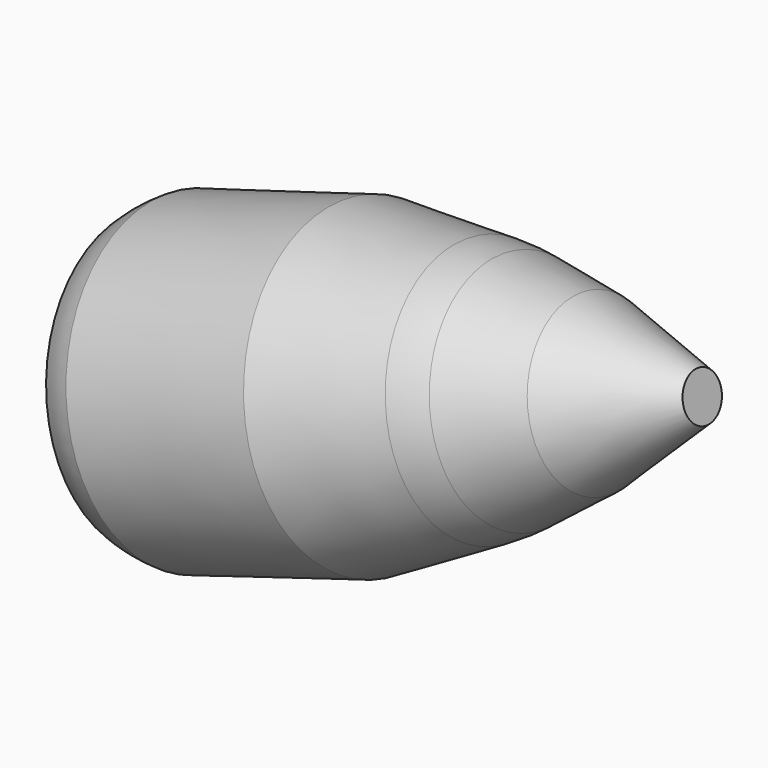
from build123d import *

# Parameters (mm, degrees)
F2_R = 177.8


with BuildPart() as f1:
    # F0 (on Front) → F1 (revolve)
    with BuildSketch(Plane.XZ):
        with BuildLine():
            Line((-335.8125113323, 31.7965768238), (-335.8125113323, -19.4187790523))
            add(Edge.make_bspline(
                [(-335.8125113323, -19.4187790523), (-319.8361711455, -36.4996415061), (-284.8251686885, -49.9284887464)],
                knots=[0.306906154, 0.306906154, 0.306906154, 0.7235563013, 0.7235563013, 0.7235563013], degree=2, weights=[1, 0.9783786977, 1]))
            Line((-284.8251686885, -49.9284887464), (52.9480699434, 51.1722083456))
            Line((52.9480699434, 51.1722083456), (48.4772927708, 66.1088895775))
            Line((48.4772927708, 66.1088895775), (-33.9198673979, 82.2606457376))
            Line((-33.9198673979, 82.2606457376), (-101.2008483359, 87.7409892803))
            Line((-101.2008483359, 87.7409892803), (-198.3356029312, 81.7438942248))
            Line((-198.3356029312, 81.7438942248), (-317.4673501972, 46.4583143785))
            add(Edge.make_bspline(
                [(-317.4673501972, 46.4583143785), (-328.6813986252, 39.4206981099), (-335.8125113323, 31.7965768238)],
                knots=[5.7881245931, 5.7881245931, 5.7881245931, 5.9762791532, 5.9762791532, 5.9762791532], degree=2, weights=[1, 0.9955779956, 1]))
        make_face()
    revolve(axis=Axis((-97.3393025247, 0, 6.1888988857), (-0.958006633, 0, -0.2867460395)))

    # F2
    f2_edges = [f1.edges().sort_by_distance(p)[0] for p in [
        (-55.76036, 0, -64.073798),
    ]]
    fillet(f2_edges, radius=F2_R)


solid = f1.part
